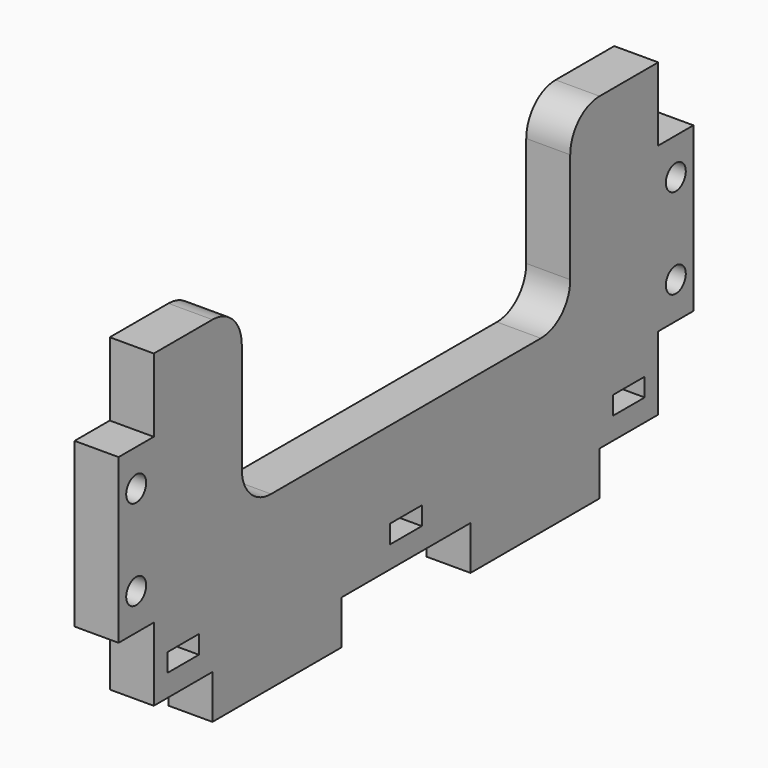
from build123d import *

# Parameters (mm, degrees)
PAD_DEPTH       = 6
SKETCH001_W     = 5.4
SKETCH001_H     = 2.5
SKETCH001_W_2   = 2.7
POCKET_DEPTH    = 224.842404
SKETCH002_R     = 1.7
POCKET001_DEPTH = 224.842404
FILLET_R        = 5


with BuildPart() as part:
    # Sketch → Pad (new body)
    with BuildSketch(Plane.YZ):
        Polygon((-43, 25), (-28, 25), (-28, 0), (28, 0), (28, 25), (43, 25), (43, 15), (49, 15), (49, -7.3), (43, -7.3), (43, -17.3), (33, -17.3), (33, -23.3), (11, -23.3), (11, -17.3), (-11, -17.3), (-11, -23.3), (-33, -23.3), (-33, -17.3), (-43, -17.3), (-43, -7.3), (-49, -7.3), (-49, 15), (-43, 15), align=None)
    extrude(amount=PAD_DEPTH)

    # Sketch001 (on Face25 of Pad) → Pocket (cut, through all)
    with BuildSketch(Plane(origin=(0, 0, 0), x_dir=(0, 1, 0), z_dir=(-1, 0, 0))):
        with Locations((38, 13.05)):
            Rectangle(SKETCH001_W, SKETCH001_H)
        with Locations((1.35, 13.05)):
            Rectangle(SKETCH001_W_2, SKETCH001_H)
    pocket = extrude(amount=-POCKET_DEPTH, mode=Mode.SUBTRACT)

    # Mirrored: Pocket across Sketch001 V_Axis
    add(pocket.mirror(Plane(origin=(0, 0, 0), x_dir=(-1, 0, 0), z_dir=(0, 1, 0))), mode=Mode.SUBTRACT)

    # Sketch002 (on Face4 of Mirrored) → Pocket001 (cut, through all)
    with BuildSketch(Plane(origin=(0, 0, 0), x_dir=(0, 1, 0), z_dir=(-1, 0, 0))):
        with Locations((46, -10)):
            Circle(SKETCH002_R)
        with Locations((46, 2.3)):
            Circle(SKETCH002_R)
    pocket001 = extrude(amount=-POCKET001_DEPTH, mode=Mode.SUBTRACT)

    # Mirrored001: Pocket001 across Sketch002 V_Axis
    add(pocket001.mirror(Plane(origin=(0, 0, 0), x_dir=(-1, 0, 0), z_dir=(0, 1, 0))), mode=Mode.SUBTRACT)

    # Fillet
    fillet_edges = [part.edges().sort_by_distance(p)[0] for p in [
        (3, -28, 0),
        (3, -28, 25),
        (3, 28, 25),
        (3, 28, 0),
    ]]
    fillet(fillet_edges, radius=FILLET_R)


solid = part.part
